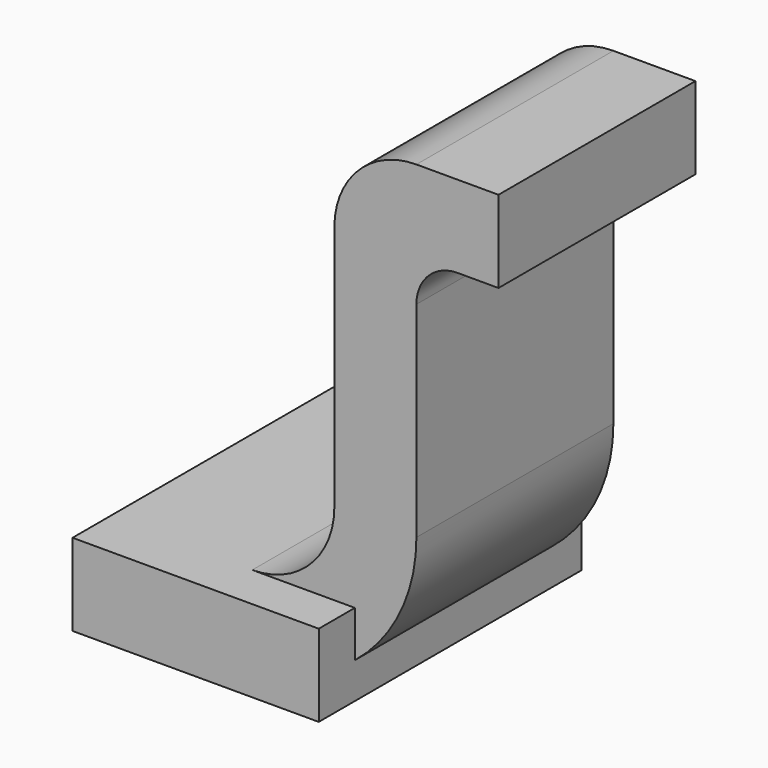
from build123d import *

# Parameters (mm, degrees)
BOX037_W                = 0.6
BOX037_H                = 0.8
BOX037_DEPTH            = 0.2
PAD002_DEPTH            = 0.6
BODY002_PLACEMENT_ANGLE = 180


with BuildPart() as kub037:
    # Box037 → Box037 (new body)
    with BuildSketch(Plane(origin=(-3.1, -1.56, 0), x_dir=(1, 0, 0), z_dir=(0, 0, 1))):
        with Locations((0.3, 0.4)):
            Rectangle(BOX037_W, BOX037_H)
    extrude(amount=BOX037_DEPTH)


with BuildPart() as fusion006:
    # Sketch002 → Pad002 (new body)
    with BuildSketch(Plane.XZ):
        with BuildLine():
            ThreePointArc((3.7, 1), (3.641421, 1.141421), (3.5, 1.2))
            Line((3.5, 1.2), (3.3, 1.2))
            Line((3.3, 1.2), (3.3, 1))
            Line((3.3, 1), (3.4, 1))
            ThreePointArc((3.5, 0.9), (3.470711, 0.970711), (3.4, 1))
            Line((3.5, 0.4), (3.5, 0.9))
            ThreePointArc((3.5, 0.4), (3.617157, 0.117157), (3.9, 0))
            Line((4, 0), (3.9, 0))
            Line((4, 0.2), (4, 0))
            Line((3.9, 0.2), (4, 0.2))
            ThreePointArc((3.7, 0.4), (3.758579, 0.258579), (3.9, 0.2))
            Line((3.7, 1), (3.7, 0.4))
        make_face()
    extrude(amount=PAD002_DEPTH)


with BuildPart() as fusion006_1:
    # Body002 placement: moved
    add(fusion006.part.moved(Location((1.15, -1.45, 0))).rotate(Axis((1.15, -1.45, 0), (0, 0, 1)), BODY002_PLACEMENT_ANGLE))

    # Fusion006: union Kub037
    add(kub037.part)


solid = fusion006_1.part
